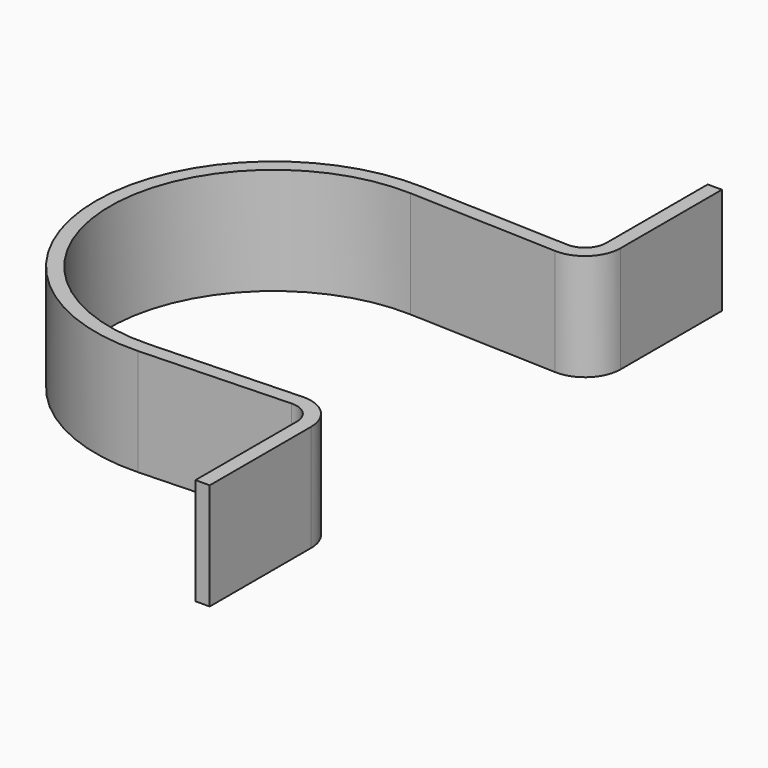
from build123d import *

# Parameters (mm, degrees)
F1_DEPTH = 15


with BuildPart() as f1:
    # F0 (on Top) → F1 (new body)
    with BuildSketch(Plane.XY):
        with BuildLine():
            ThreePointArc((0.865114, -22.983724), (-23, 0), (0.865114, 22.983724))
            Line((0.865114, 22.983724), (21.811932, 22.19528))
            ThreePointArc((21.811932, 22.19528), (25.468404, 23.59033), (27, 27.191742))
            Line((27, 27.191742), (27, 45))
            Line((27, 45), (25, 45))
            Line((25, 45), (25, 27.191742))
            ThreePointArc((25, 27.191742), (24.081043, 25.030895), (21.887159, 24.193865))
            Line((21.887159, 24.193865), (0.940341, 24.982309))
            ThreePointArc((0.940341, 24.982309), (-25, 0), (0.940341, -24.982309))
            Line((0.940341, -24.982309), (21.887159, -24.193865))
            ThreePointArc((21.887159, -24.193865), (24.081043, -25.030895), (25, -27.191742))
            Line((25, -27.191742), (25, -45))
            Line((25, -45), (27, -45))
            Line((27, -45), (27, -27.191742))
            ThreePointArc((27, -27.191742), (25.468404, -23.59033), (21.811932, -22.19528))
            Line((21.811932, -22.19528), (0.865114, -22.983724))
        make_face()
    extrude(amount=F1_DEPTH)


solid = f1.part
